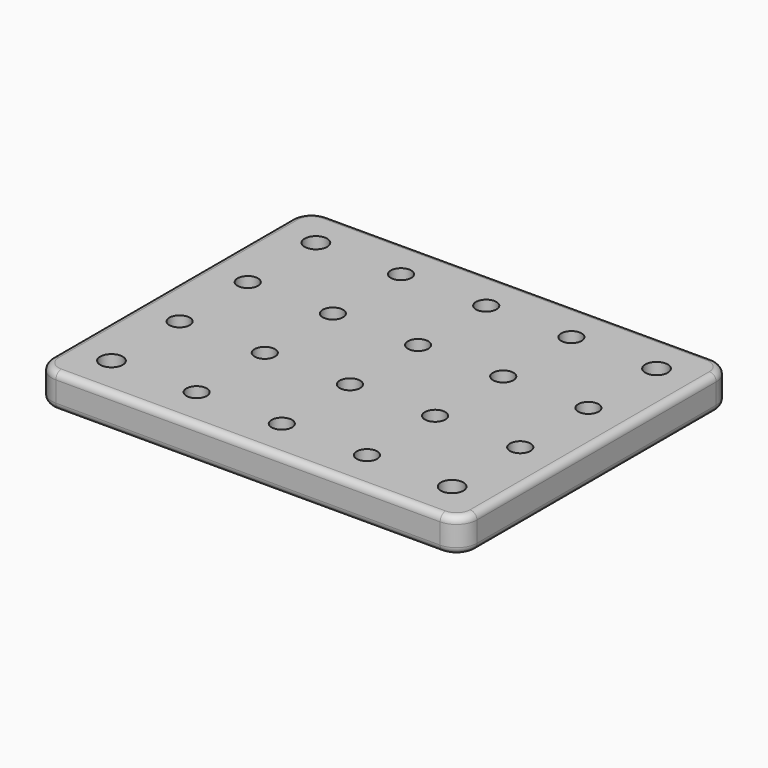
from build123d import *

# Parameters (mm, degrees)
SKETCH_R         = 3
PAD_DEPTH        = 10
HOLE_D           = 6.6
HOLE_DEPTH       = 25
HOLE_CBORE_D     = 11
HOLE_CBORE_DEPTH = 6.4
FILLET_R         = 2
FILLET001_R      = 2


with BuildPart() as part:
    # Sketch → Pad (new body)
    with BuildSketch(Plane.XY):
        with BuildLine():
            Line((-56.4, 49.9), (56.4, 49.9))
            ThreePointArc((62.4, 43.9), (60.642641, 48.142641), (56.4, 49.9))
            Line((62.4, 43.9), (62.4, -43.9))
            ThreePointArc((56.4, -49.9), (60.642641, -48.142641), (62.4, -43.9))
            Line((56.4, -49.9), (-56.4, -49.9))
            ThreePointArc((-62.4, -43.9), (-60.642641, -48.142641), (-56.4, -49.9))
            Line((-62.4, -43.9), (-62.4, 43.9))
            ThreePointArc((-56.4, 49.9), (-60.642641, 48.142641), (-62.4, 43.9))
        make_face()
        with Locations((25, -37.5)):
            Circle(SKETCH_R, mode=Mode.SUBTRACT)
        with Locations((0, -37.5)):
            Circle(SKETCH_R, mode=Mode.SUBTRACT)
        with Locations((-25, -37.5)):
            Circle(SKETCH_R, mode=Mode.SUBTRACT)
        with Locations((50, -12.5)):
            Circle(SKETCH_R, mode=Mode.SUBTRACT)
        with Locations((50, 12.5)):
            Circle(SKETCH_R, mode=Mode.SUBTRACT)
        with Locations((-50, -12.5)):
            Circle(SKETCH_R, mode=Mode.SUBTRACT)
        with Locations((-25, -12.5)):
            Circle(SKETCH_R, mode=Mode.SUBTRACT)
        with Locations((0, -12.5)):
            Circle(SKETCH_R, mode=Mode.SUBTRACT)
        with Locations((25, -12.5)):
            Circle(SKETCH_R, mode=Mode.SUBTRACT)
        with Locations((-50, 12.5)):
            Circle(SKETCH_R, mode=Mode.SUBTRACT)
        with Locations((-25, 12.5)):
            Circle(SKETCH_R, mode=Mode.SUBTRACT)
        with Locations((0, 12.5)):
            Circle(SKETCH_R, mode=Mode.SUBTRACT)
        with Locations((25, 12.5)):
            Circle(SKETCH_R, mode=Mode.SUBTRACT)
        with Locations((-25, 37.5)):
            Circle(SKETCH_R, mode=Mode.SUBTRACT)
        with Locations((0, 37.5)):
            Circle(SKETCH_R, mode=Mode.SUBTRACT)
        with Locations((25, 37.5)):
            Circle(SKETCH_R, mode=Mode.SUBTRACT)
    extrude(amount=PAD_DEPTH)

    # Hole
    with Locations(Plane(origin=(0, 0, 0), x_dir=(1, 0, 0), z_dir=(0, 0, -1))):
        with Locations((50, -37.5), (-50, -37.5), (-50, 37.5), (50, 37.5)):
            CounterBoreHole(HOLE_D / 2, HOLE_CBORE_D / 2, HOLE_CBORE_DEPTH, depth=HOLE_DEPTH)

    # Fillet
    fillet_edges = [part.edges().sort_by_distance(p)[0] for p in [
        (0, 49.9, 0),
    ]]
    fillet(fillet_edges, radius=FILLET_R)

    # Fillet001
    fillet001_edges = [part.edges().sort_by_distance(p)[0] for p in [
        (0, 49.9, 10),
    ]]
    fillet(fillet001_edges, radius=FILLET001_R)


solid = part.part
